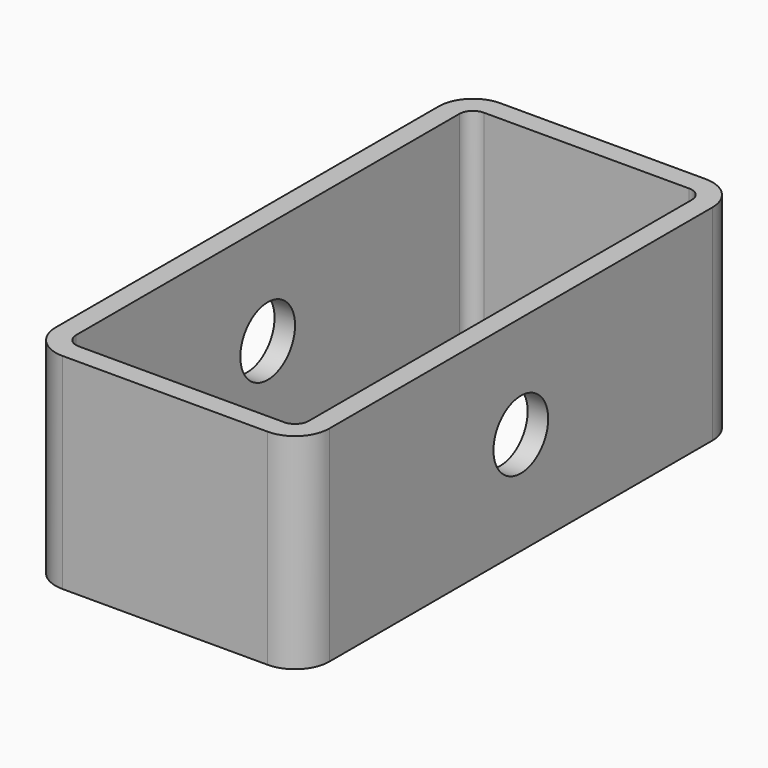
from build123d import *

# Parameters (mm, degrees)
F0_W     = 40
F0_H     = 80
F1_DEPTH = 30
F2_R     = 5
F4_DEPTH = 30
F5_R     = 5
F6_DEPTH = 40.001


with BuildPart() as f1:
    # F0 (on Top) → F1 (new body)
    with BuildSketch(Plane.XY):
        Rectangle(F0_W, F0_H)
    extrude(amount=F1_DEPTH)

    # F2
    f2_edges = [f1.edges().sort_by_distance(p)[0] for p in [
        (20, 40, 15),
        (-20, 40, 15),
        (-20, -40, 15),
        (20, -40, 15),
    ]]
    fillet(f2_edges, radius=F2_R)

    # F3 (on face) → F4 (cut)
    with BuildSketch(Plane.XY.offset(30)):
        with BuildLine():
            ThreePointArc((17, 35), (16.414214, 36.414214), (15, 37))
            Line((15, 37), (-15, 37))
            ThreePointArc((-15, 37), (-16.414214, 36.414214), (-17, 35))
            Line((-17, 35), (-17, -35))
            ThreePointArc((-17, -35), (-16.414214, -36.414214), (-15, -37))
            Line((-15, -37), (15, -37))
            ThreePointArc((15, -37), (16.414214, -36.414214), (17, -35))
            Line((17, -35), (17, 35))
        make_face()
    extrude(amount=-F4_DEPTH, mode=Mode.SUBTRACT)

    # F5 (on face) → F6 (cut, through all)
    with BuildSketch(Plane.YZ.offset(20)):
        with Locations((0, 15)):
            Circle(F5_R)
    extrude(amount=-F6_DEPTH, mode=Mode.SUBTRACT)


solid = f1.part
